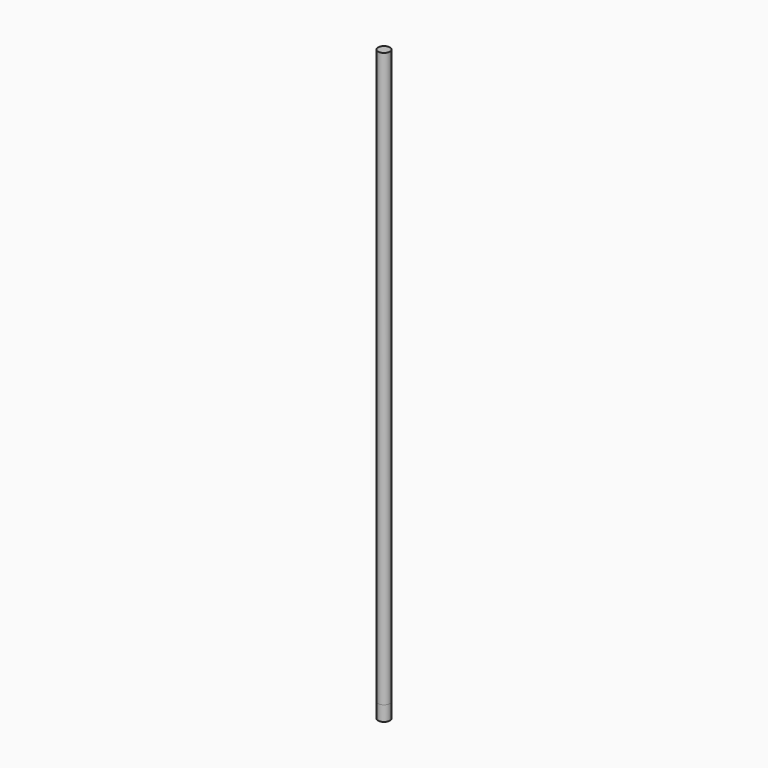
from build123d import *

# Parameters (mm, degrees)
F0_R     = 6.35
F1_DEPTH = 660.4
F2_DEPTH = 51.719988
F3_DEPTH = 16.334994
F4_DEPTH = 16.334994


with BuildPart() as f1:
    # F0 (on Top) → F1 (new body)
    with BuildSketch(Plane.XY):
        Circle(F0_R)
    extrude(amount=F1_DEPTH)

    # F2 (cut): a face of the model
    f2_faces = [f1.faces().sort_by_distance(p)[0] for p in [
        (0, 0, 660.4),
    ]]
    extrude(f2_faces, amount=-F2_DEPTH, mode=Mode.SUBTRACT)

    # F3 (add): a face of the model
    f3_faces = [f1.faces().sort_by_distance(p)[0] for p in [
        (0, 0, 608.680012),
    ]]
    extrude(f3_faces, amount=F3_DEPTH)

    # F4 (add): a face of the model
    f4_faces = [f1.faces().sort_by_distance(p)[0] for p in [
        (0, 0, 0),
    ]]
    extrude(f4_faces, amount=F4_DEPTH)


solid = f1.part
